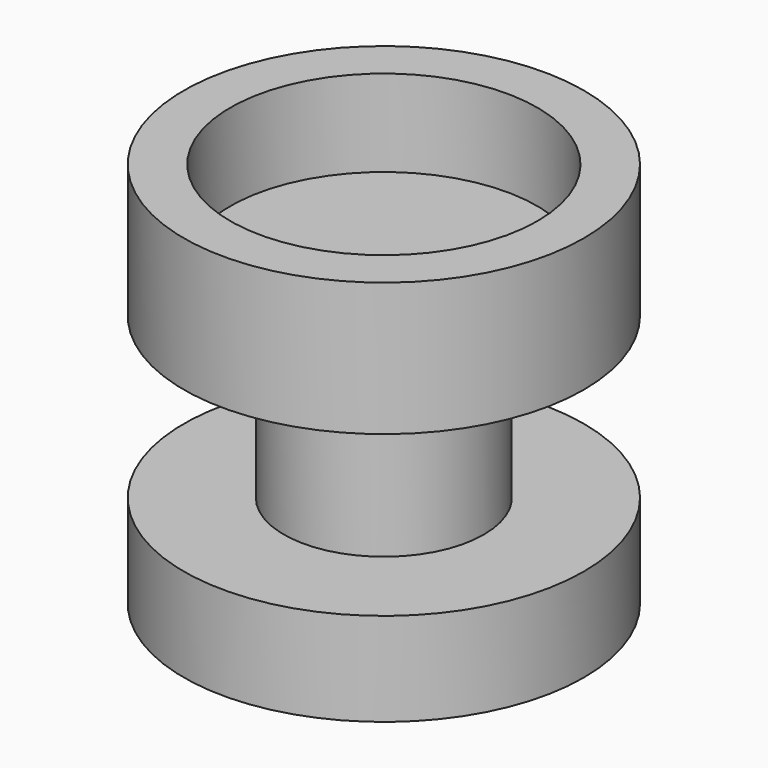
from build123d import *

# Parameters (mm, degrees)
F2_R     = 11.516754
F3_DEPTH = 6.5


with BuildPart() as f1:
    # F0 (on Front) → F1 (revolve)
    with BuildSketch(Plane.XZ):
        Polygon((0, 29), (0, 0), (15, 0), (15, 7), (7.5, 7), (7.5, 19), (15, 19), (15, 29), align=None)
    revolve(axis=Axis((0, 0, 14.5), (0, 0, -1)))

    # F2 (on face) → F3 (cut)
    with BuildSketch(Plane.XY.offset(29)):
        Circle(F2_R)
    extrude(amount=-F3_DEPTH, mode=Mode.SUBTRACT)


solid = f1.part
